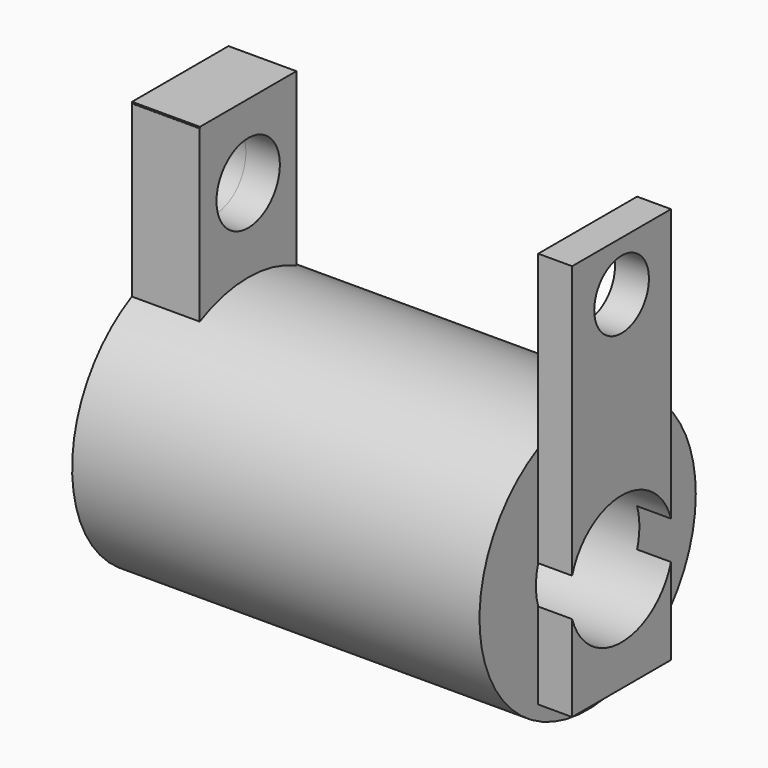
from build123d import *

# Parameters (mm, degrees)
F0_R      = 50.5719181769
F1_DEPTH  = 152.4
F2_W      = 45.1020896435
F2_H      = 153.3471494913
F3_DEPTH  = 25.4
F4_W      = 45.3240573406
F4_H      = 153.6485850811
F5_DEPTH  = 25.4
F7_DEPTH  = 25.4
F8_R      = 14.8077748838
F7_FACE_W = 46.2437570095
F7_FACE_H = 148.4715342522
F9_DEPTH  = 12.7
F10_R     = 14.8077748838
F11_DEPTH = 25.4
F12_R     = 14.0159592486
F13_DEPTH = 25.4
F14_R     = 12.7922507372
F15_DEPTH = 25.4
F16_R     = 19.6873563426
F17_DEPTH = 177.8
F18_R     = 24.1990782375
F19_DEPTH = 101.6
F20_DEPTH = 25.4
F21_DEPTH = 203.2


with BuildPart() as f1:
    # F0 (on Right) → F1 (new body)
    with BuildSketch(Plane.YZ):
        Circle(F0_R)
    extrude(amount=F1_DEPTH)

    # F2 (on Right) → F3 (join)
    with BuildSketch(Plane.YZ):
        with Locations((0, 32.645329833)):
            Rectangle(F2_W, F2_H)
    extrude(amount=F3_DEPTH)

    # F4 (on Right) → F5 (join)
    with BuildSketch(Plane.YZ):
        with Locations((0, 31.9696366787)):
            Rectangle(F4_W, F4_H)
    extrude(amount=F5_DEPTH)

    # F6 (on face) → F7 (join)
    with BuildSketch(Plane.YZ.offset(152.4)):
        with BuildLine():
            ThreePointArc((23.1218785048, 44.9766344061), (0, 50.5719181769), (-23.1218785048, 44.9766344061))
            Line((-23.1218785048, 44.9766344061), (-23.1218785048, -39.3963605165))
            Line((-23.1218785048, -39.3963605165), (23.1218785048, -39.3963605165))
            Line((23.1218785048, -39.3963605165), (23.1218785048, 44.9766344061))
        make_face()
        with BuildLine():
            Line((23.1218785048, 109.0751737356), (-23.1218785048, 109.0751737356))
            Line((-23.1218785048, 109.0751737356), (-23.1218785048, 44.9766344061))
            ThreePointArc((-23.1218785048, 44.9766344061), (0, 50.5719181769), (23.1218785048, 44.9766344061))
            Line((23.1218785048, 44.9766344061), (23.1218785048, 109.0751737356))
        make_face()
    extrude(amount=F7_DEPTH)

    # F8 (on Right) + F7_face (on face) → F9 (cut, symmetric)
    with BuildSketch(Plane.YZ):
        with Locations((0, 81.6606134176)):
            Circle(F8_R)
    with BuildSketch(Plane(origin=(177.8, 0, 34.8394066095), x_dir=(0, 1, 0), z_dir=(1, 0, 0))):
        Rectangle(F7_FACE_W, F7_FACE_H)
    extrude(amount=F9_DEPTH, both=True, mode=Mode.SUBTRACT)

    # F10 (on face) → F11 (cut)
    with BuildSketch(Plane(origin=(12.7, 0, 0), x_dir=(0, -1, 0), z_dir=(-1, 0, 0))):
        with Locations((0, 81.6606134176)):
            Circle(F10_R)
    extrude(amount=-F11_DEPTH, mode=Mode.SUBTRACT)

    # F12 (on Right) → F13 (cut)
    with BuildSketch(Plane.YZ):
        with Locations((-7.2993179783, 64.5171701908)):
            Circle(F12_R)
    extrude(amount=-F13_DEPTH, mode=Mode.SUBTRACT)

    # F14 (on face) → F15 (cut)
    with BuildSketch(Plane(origin=(152.4, 0, 0), x_dir=(0, -1, 0), z_dir=(-1, 0, 0))):
        with Locations((0, 90.3855785728)):
            Circle(F14_R)
    extrude(amount=-F15_DEPTH, mode=Mode.SUBTRACT)

    # F16 (on Right) → F17 (cut)
    with BuildSketch(Plane.YZ):
        Circle(F16_R)
    extrude(amount=-F17_DEPTH, mode=Mode.SUBTRACT)

    # F18 (on Right) → F19 (cut, symmetric)
    with BuildSketch(Plane.YZ):
        Circle(F18_R)
    extrude(amount=F19_DEPTH, both=True, mode=Mode.SUBTRACT)

    # F20 (cut): a face of the model
    f20_faces = [f1.faces().sort_by_distance(p)[0] for p in [
        (101.6, 0, 0),
    ]]
    extrude(f20_faces, amount=-F20_DEPTH, mode=Mode.SUBTRACT)

    # F21 (cut): a face of the model
    f21_faces = [f1.faces().sort_by_distance(p)[0] for p in [
        (127, 0, 0),
    ]]
    extrude(f21_faces, amount=-F21_DEPTH, mode=Mode.SUBTRACT)


solid = f1.part
